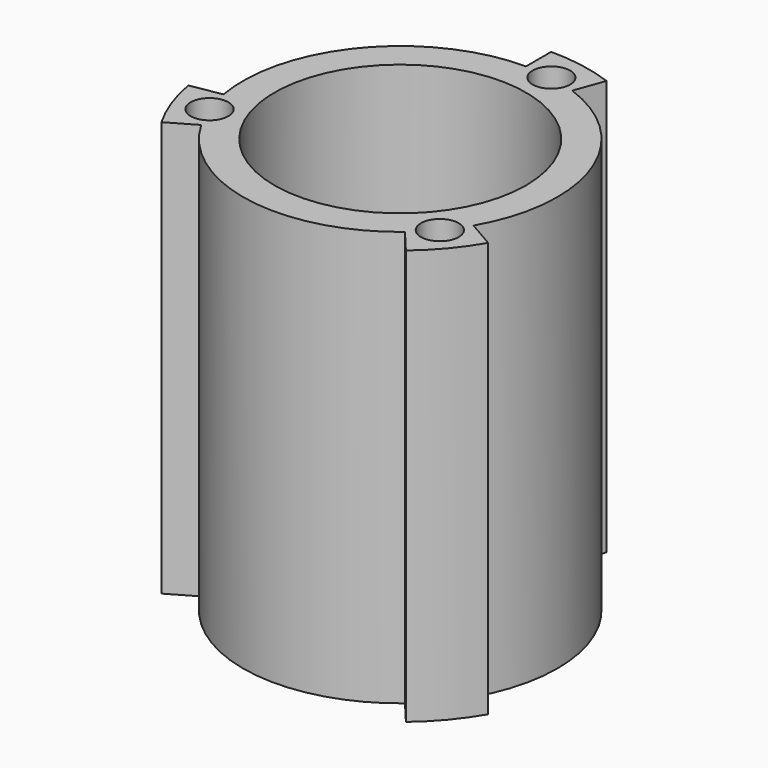
from build123d import *

# Parameters (mm, degrees)
F0_R     = 1.5
F0_R_2   = 10
F1_DEPTH = 3
F2_DEPTH = 33
F3_DEPTH = 20


with BuildPart() as f1:
    # F0 (on Top) → F1 (new body)
    with BuildSketch(Plane.XY):
        with BuildLine():
            Line((-12.9903810568, -7.5), (-10.8253175473, -6.25))
            ThreePointArc((-10.8253175473, -6.25), (-2.1706022208, -12.3100969127), (8.0348451211, -9.575555539))
            Line((8.0348451211, -9.575555539), (9.6418141453, -11.4906666468))
            ThreePointArc((9.6418141453, -11.4906666468), (11.4906666468, -9.6418141453), (12.9903810568, -7.5))
            Line((12.9903810568, -7.5), (10.8253175473, -6.25))
            ThreePointArc((10.8253175473, -6.25), (11.7461577598, 4.2752517916), (4.2752517916, 11.7461577598))
            Line((4.2752517916, 11.7461577598), (5.1303021499, 14.0953893118))
            ThreePointArc((5.1303021499, 14.0953893118), (2.604722665, 14.7721162952), (0, 15))
            Line((0, 15), (0, 12.5))
            ThreePointArc((0, 12.5), (-9.575555539, 8.0348451211), (-12.3100969127, -2.1706022208))
            Line((-12.3100969127, -2.1706022208), (-14.7721162952, -2.604722665))
            ThreePointArc((-14.7721162952, -2.604722665), (-14.0953893118, -5.1303021499), (-12.9903810568, -7.5))
        make_face()
        with Locations((-11.7461577598, -4.2752517916)):
            Circle(F0_R, mode=Mode.SUBTRACT)
        with Locations((9.575555539, -8.0348451211)):
            Circle(F0_R, mode=Mode.SUBTRACT)
        Circle(F0_R_2, mode=Mode.SUBTRACT)
        with Locations((2.1706022208, 12.3100969127)):
            Circle(F0_R, mode=Mode.SUBTRACT)
        Circle(F0_R_2)
        with BuildLine():
            ThreePointArc((1.1180339887, 1), (0, -1.5), (-1.1180339887, 1))
            Line((-1.1180339887, 1), (1.1180339887, 1))
        make_face(mode=Mode.SUBTRACT)
    extrude(amount=F1_DEPTH)

    # F0 (on Top) → F2 (join)
    with BuildSketch(Plane.XY):
        with BuildLine():
            Line((-12.9903810568, -7.5), (-10.8253175473, -6.25))
            ThreePointArc((-10.8253175473, -6.25), (-2.1706022208, -12.3100969127), (8.0348451211, -9.575555539))
            Line((8.0348451211, -9.575555539), (9.6418141453, -11.4906666468))
            ThreePointArc((9.6418141453, -11.4906666468), (11.4906666468, -9.6418141453), (12.9903810568, -7.5))
            Line((12.9903810568, -7.5), (10.8253175473, -6.25))
            ThreePointArc((10.8253175473, -6.25), (11.7461577598, 4.2752517916), (4.2752517916, 11.7461577598))
            Line((4.2752517916, 11.7461577598), (5.1303021499, 14.0953893118))
            ThreePointArc((5.1303021499, 14.0953893118), (2.604722665, 14.7721162952), (0, 15))
            Line((0, 15), (0, 12.5))
            ThreePointArc((0, 12.5), (-9.575555539, 8.0348451211), (-12.3100969127, -2.1706022208))
            Line((-12.3100969127, -2.1706022208), (-14.7721162952, -2.604722665))
            ThreePointArc((-14.7721162952, -2.604722665), (-14.0953893118, -5.1303021499), (-12.9903810568, -7.5))
        make_face()
        with Locations((-11.7461577598, -4.2752517916)):
            Circle(F0_R, mode=Mode.SUBTRACT)
        with Locations((9.575555539, -8.0348451211)):
            Circle(F0_R, mode=Mode.SUBTRACT)
        Circle(F0_R_2, mode=Mode.SUBTRACT)
        with Locations((2.1706022208, 12.3100969127)):
            Circle(F0_R, mode=Mode.SUBTRACT)
    extrude(amount=F2_DEPTH)

    # F0 (on Top) → F3 (join)
    with BuildSketch(Plane.XY):
        with BuildLine():
            Line((1.1180339887, 1), (-1.1180339887, 1))
            ThreePointArc((-1.1180339887, 1), (0, -1.5), (1.1180339887, 1))
        make_face()
    extrude(amount=F3_DEPTH)


solid = f1.part
